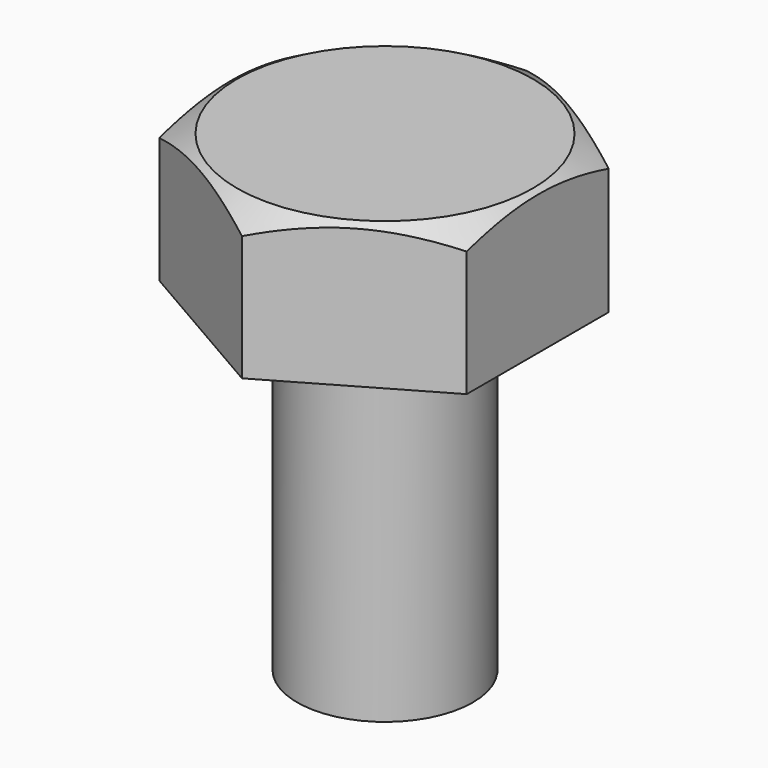
from build123d import *

# Parameters (mm, degrees)
F0_R     = 4
F1_DEPTH = 15
F3_DEPTH = 6.5


with BuildPart() as f1:
    # F0 (on Top) → F1 (new body)
    with BuildSketch(Plane.XY):
        Circle(F0_R)
    extrude(amount=-F1_DEPTH)

    # F2 (on face) → F3 (join)
    with BuildSketch(Plane.XY):
        Polygon((7, 3.984384), (0, 8.025836), (-7, 3.984384), (-7, -4.098519), (0, -8.139971), (7, -4.098519), align=None)
    extrude(amount=F3_DEPTH)

    # F6: sweep along a path in F5
    with BuildLine(Plane.XY.offset(6.5)) as f6_path:
        CenterArc((0, 0), 8.139971, 0, 360)
    # F4 (on Right) → F6 (sweep, cut)
    with BuildSketch(Plane.YZ):
        Polygon((-8.139971, 5.7), (-6.739971, 6.5), (-8.139971, 6.5), align=None)
    sweep(path=f6_path.line, mode=Mode.SUBTRACT)


solid = f1.part
